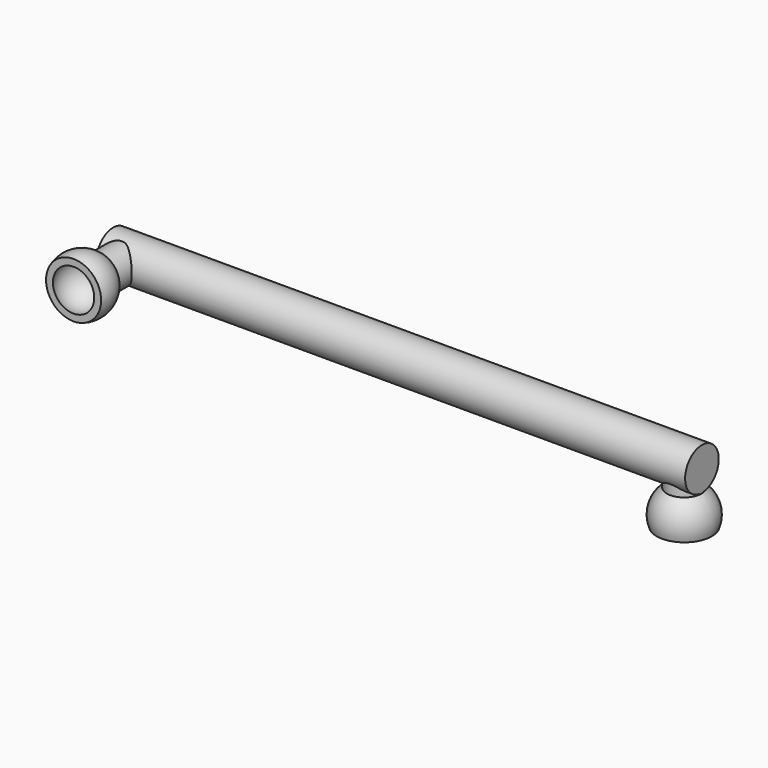
from build123d import *

# Parameters (mm, degrees)
F3_R     = 2.5
F4_DEPTH = 35


with BuildPart() as f1:
    # F0 (on Top) → F1 (revolve)
    with BuildSketch(Plane.XY):
        with BuildLine():
            ThreePointArc((3, 2.75), (5.3408484106, 1.4432355034), (5.4570149341, -1.2351427503))
            Line((5.4570149341, -1.2351427503), (6.2748163897, -1.2351427503))
            ThreePointArc((6.2748163897, -1.2351427503), (6.378961338, 0.9124802881), (5.2078915499, 2.7157346895))
            ThreePointArc((5.2078915499, 2.7157346895), (4.1715222121, 3.29811093), (3, 3.5))
            Line((3, 3.5), (3, 2.75))
        make_face()
        with BuildLine():
            Line((3, 5.9120398946), (3, 3.5))
            ThreePointArc((3, 3.5), (4.1715222121, 3.29811093), (5.2078915499, 2.7157346895))
            Line((5.2078915499, 2.7157346895), (5.2078915499, 5.9120398946))
            Line((5.2078915499, 5.9120398946), (3, 5.9120398946))
        make_face()
    revolve(axis=Axis((3, -1.5105393408, 0), (0, -1, 0)))

    # F3 (on offset) → F4 (join, symmetric)
    with BuildSketch(Plane.YZ.offset(36)):
        with Locations((7.1499980986, 0)):
            Circle(F3_R)
    extrude(amount=F4_DEPTH, both=True)


with BuildPart() as f1_1:
    # F5: moved
    add(f1.part.moved(Location((0, -7.2, 0))))

    # F6 (on Front) → F7 (revolve)
    with BuildSketch(Plane.XZ):
        with BuildLine():
            ThreePointArc((68.8586309552, -2.7275545988), (71.1994793659, -4.0343190953), (71.3156458893, -6.712697349))
            Line((71.3156458893, -6.712697349), (72.133447345, -6.712697349))
            ThreePointArc((72.133447345, -6.712697349), (72.2115181091, -4.4734889968), (70.9155485965, -2.64575485))
            ThreePointArc((70.9155485965, -2.64575485), (69.9399960368, -2.148793634), (68.8586309552, -1.9775545988))
            Line((68.8586309552, -1.9775545988), (68.8586309552, -2.7275545988))
        make_face()
        with BuildLine():
            Line((68.8586309552, 0.4344852958), (68.8586309552, -1.9775545988))
            ThreePointArc((68.8586309552, -1.9775545988), (69.9399960368, -2.148793634), (70.9155485965, -2.64575485))
            Line((70.9155485965, -2.64575485), (70.9155485965, 0.4344852958))
            Line((70.9155485965, 0.4344852958), (68.8586309552, 0.4344852958))
        make_face()
    revolve(axis=Axis((68.8586309552, 0, -3.7275545988), (0, 0, 1)))


solid = f1_1.part
